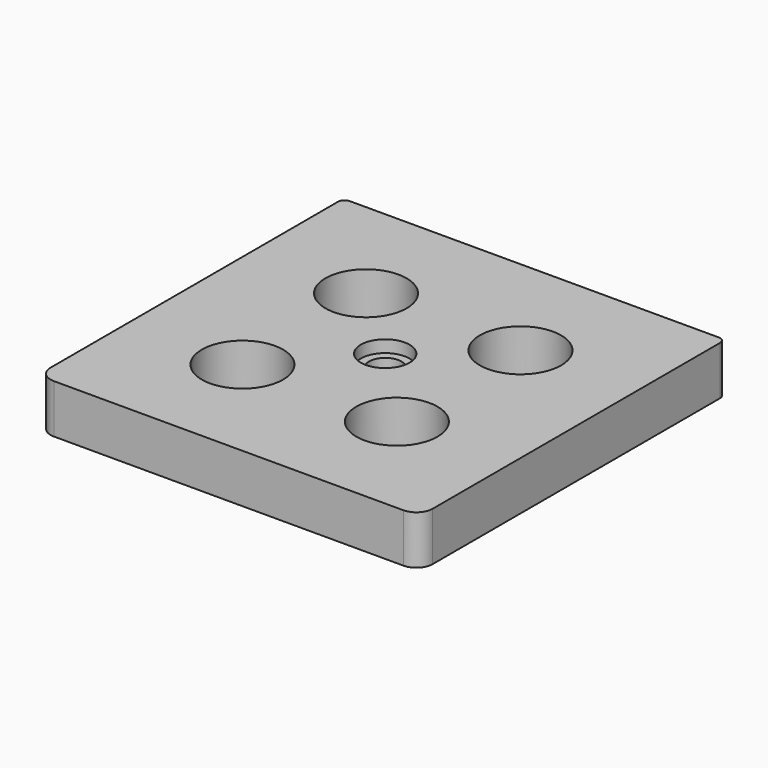
from build123d import *

# Parameters (mm, degrees)
F0_R           = 15.875
F1_DEPTH       = 9.525
F3_D           = 12.7
F3_CBORE_D     = 19.05
F3_CBORE_DEPTH = 4.7498


with BuildPart() as f1:
    # F0 (on Top) → F1 (new body, symmetric)
    with BuildSketch(Plane.XY):
        with BuildLine():
            Line((-67.1195, -77.2795), (69.4055, -77.2795))
            ThreePointArc((69.4055, -77.2795), (73.895628, -75.419628), (75.7555, -70.9295))
            Line((75.7555, -70.9295), (75.7555, 69.4055))
            ThreePointArc((75.7555, 69.4055), (75.011551, 71.201551), (73.2155, 71.9455))
            Line((73.2155, 71.9455), (-70.9295, 71.9455))
            ThreePointArc((-70.9295, 71.9455), (-72.725551, 71.201551), (-73.4695, 69.4055))
            Line((-73.4695, 69.4055), (-73.4695, -70.9295))
            ThreePointArc((-73.4695, -70.9295), (-71.609628, -75.419628), (-67.1195, -77.2795))
        make_face()
        with Locations((-29.0195, -32.8295)):
            Circle(F0_R, mode=Mode.SUBTRACT)
        with Locations((31.3055, -32.8295)):
            Circle(F0_R, mode=Mode.SUBTRACT)
        with Locations((-29.0195, 27.4955)):
            Circle(F0_R, mode=Mode.SUBTRACT)
        with Locations((31.3055, 27.4955)):
            Circle(F0_R, mode=Mode.SUBTRACT)
    extrude(amount=F1_DEPTH, both=True)

    # F3 (through all)
    with Locations(Plane.XY.offset(9.525)):
        with Locations((0.464717, 0)):
            CounterBoreHole(F3_D / 2, F3_CBORE_D / 2, F3_CBORE_DEPTH)


solid = f1.part
